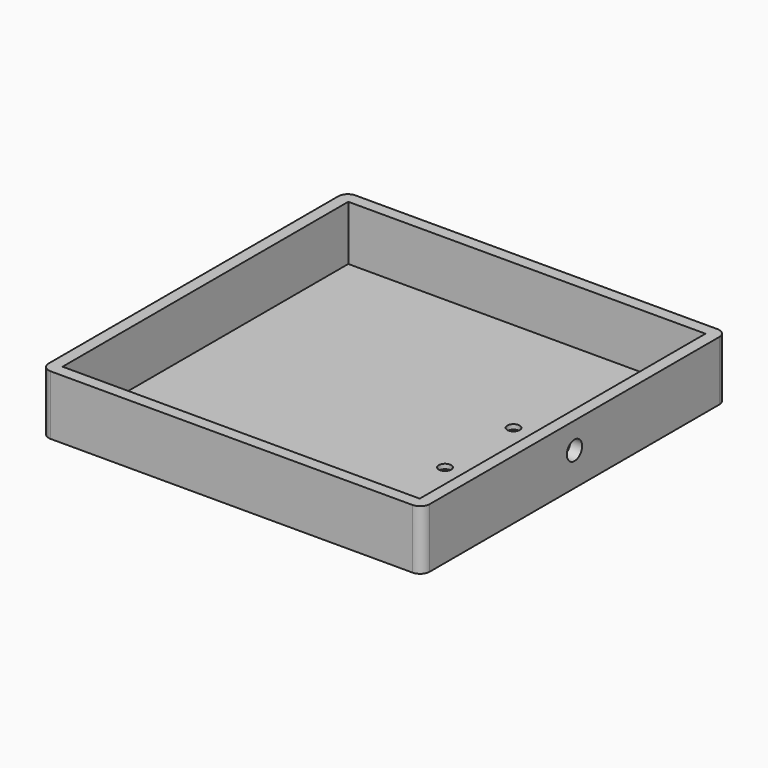
from build123d import *

# Parameters (mm, degrees)
CYLINDER001_R     = 2
CYLINDER001_DEPTH = 10
SKETCH005_W       = 75
SKETCH005_H       = 75
SKETCH005_R       = 1.3
EXTRUDE005_DEPTH  = 1
SKETCH004_W       = 75
SKETCH004_H       = 75
EXTRUDE004_DEPTH  = 12.5


with BuildPart() as obj1:
    # Cylinder001 → Cylinder001 (new body)
    with BuildSketch(Plane(origin=(35, 0, 7), x_dir=(0, 0, -1), z_dir=(1, 0, 0))):
        Circle(CYLINDER001_R)
    extrude(amount=CYLINDER001_DEPTH)


with BuildPart() as solar_rahmen_boden:
    # Sketch005 → Extrude005 (new body)
    with BuildSketch(Plane.XY):
        Rectangle(SKETCH005_W, SKETCH005_H)
        with Locations((20, 9)):
            Circle(SKETCH005_R, mode=Mode.SUBTRACT)
        with Locations((20, -9)):
            Circle(SKETCH005_R, mode=Mode.SUBTRACT)
    extrude(amount=EXTRUDE005_DEPTH)


with BuildPart() as obj2:
    # Sketch004 → Extrude004 (new body)
    with BuildSketch(Plane.XY):
        with BuildLine():
            Line((-38, 40), (38, 40))
            ThreePointArc((40, 38), (39.414214, 39.414214), (38, 40))
            Line((40, 38), (40, -38))
            ThreePointArc((38, -40), (39.414214, -39.414214), (40, -38))
            Line((38, -40), (-38, -40))
            ThreePointArc((-40, -38), (-39.414214, -39.414214), (-38, -40))
            Line((-40, -38), (-40, 38))
            ThreePointArc((-38, 40), (-39.414214, 39.414214), (-40, 38))
        make_face()
        Rectangle(SKETCH004_W, SKETCH004_H, mode=Mode.SUBTRACT)
    extrude(amount=EXTRUDE004_DEPTH)

    # Fusion002: union solar_rahmen_boden
    add(solar_rahmen_boden.part)

    # Cut001: cut obj1
    add(obj1.part, mode=Mode.SUBTRACT)


solid = obj2.part
